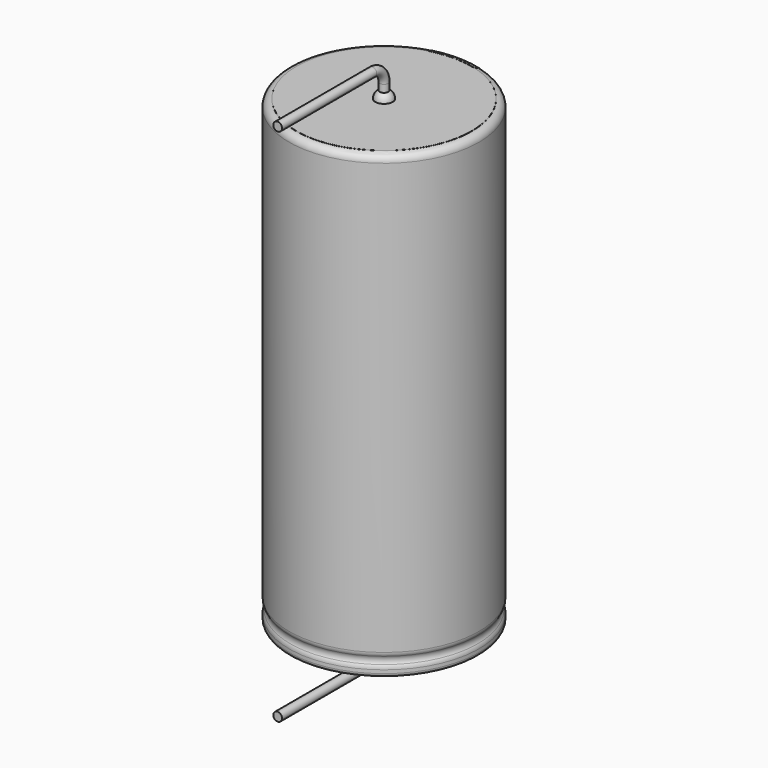
from build123d import *

# Parameters (mm, degrees)
SKETCH011_R             = 0.3
BODY007_PLACEMENT_ANGLE = 180
REVOLUTION001_ANGLE     = -30
POCKET_DEPTH            = 6.511
LINEARPATTERN_COUNT     = 7
LINEARPATTERN_PITCH     = 4.416667
SKETCH012_R             = 6
PAD_DEPTH               = 0.01
BODY008_PLACEMENT_ANGLE = 90


with BuildPart() as lead:
    # AdditivePipe: sweep along a path in Sketch010
    with BuildLine(Plane(origin=(0, 0, 0), x_dir=(0, -1, 0), z_dir=(-1, 0, 0))) as additivepipe_path:
        Line((0, 31.5), (0, 32.53))
        ThreePointArc((0, 32.53), (0.292893, 33.237107), (1, 33.53))
        Line((1, 33.53), (9.1, 33.53))
    # Sketch011 → AdditivePipe (sweep)
    with BuildSketch(Plane.XY.offset(31.5)):
        Circle(SKETCH011_R)
    sweep(path=additivepipe_path.line)


with BuildPart() as obj1:
    # Body007 base: copy of Lead
    add(lead.part)


with BuildPart() as obj1_1:
    # Body007 placement: moved
    add(obj1.part.moved(Location((0, 0, 31.5))).rotate(Axis((0, 0, 31.5), (0, 1, 0)), BODY007_PLACEMENT_ANGLE))


with BuildPart() as polaritymarking:
    # Sketch005 → Revolution001 (revolve)
    with BuildSketch(Plane(origin=(0, 0, 0), x_dir=(-0.258819, 0.965926, 0), z_dir=(0.965926, 0.258819, 0))):
        with BuildLine():
            Line((6.01, 0.043526), (6.01, 31.51))
            ThreePointArc((6.01, 31.51), (6.363553, 31.363553), (6.51, 31.01))
            Line((6.51, 31.01), (6.51, 1.523941))
            ThreePointArc((6.51, 1.523941), (6.489134, 1.381006), (6.428278, 1.25))
            ThreePointArc((6.428278, 1.25), (6.353698, 1), (6.428278, 0.75))
            ThreePointArc((6.428278, 0.75), (6.489134, 0.618994), (6.51, 0.476059))
            Line((6.51, 0.476059), (6.51, 0.043526))
            ThreePointArc((6.51, 0.043526), (6.26, -0.206474), (6.01, 0.043526))
        make_face()
    revolve(axis=Axis((0, 0, 0), (0, 0, 1)), revolution_arc=REVOLUTION001_ANGLE)

    # Sketch013 → Pocket (cut, through all)
    with BuildSketch(Plane.XZ):
        Polygon((0.375, 2), (-0.375, 2), (-0.375, 3), (0, 3.5), (0.375, 3), align=None)
    pocket = extrude(amount=-POCKET_DEPTH, mode=Mode.SUBTRACT)

    # LinearPattern: Pocket ×7
    with Locations(*[(0, 0, i * LINEARPATTERN_PITCH) for i in range(1, LINEARPATTERN_COUNT)]):
        add(pocket, mode=Mode.SUBTRACT)


with BuildPart() as housing:
    # Sketch → Revolution (revolve)
    with BuildSketch(Plane.XZ):
        with BuildLine():
            Line((0, 31.5), (6, 31.5))
            ThreePointArc((6.5, 31), (6.353553, 31.353553), (6, 31.5))
            Line((6.5, 31), (6.5, 1.523941))
            ThreePointArc((6.418278, 1.25), (6.479134, 1.381006), (6.5, 1.523941))
            ThreePointArc((6.418278, 1.25), (6.343698, 1), (6.418278, 0.75))
            ThreePointArc((6.5, 0.476059), (6.479134, 0.618994), (6.418278, 0.75))
            Line((6.5, 0.476059), (6.5, 0.25))
            ThreePointArc((6.25, 0), (6.426777, 0.073223), (6.5, 0.25))
            Line((0, 0), (6.25, 0))
            Line((0, 31.5), (0, 0))
        make_face()
    revolve(axis=Axis((0, 0, 0), (0, 0, 1)))


with BuildPart() as fusion:
    # Sphere → Sphere (revolve)
    with BuildSketch(Plane.XZ):
        with BuildLine():
            ThreePointArc((0, -0.6), (0.6, 0), (0, 0.6))
            Line((0, 0.6), (0, -0.6))
        make_face()
    revolve(axis=Axis((0, 0, 0), (0, 0, 1)))

    # Sketch012 (on ShapeBinder) → Pad (new body)
    with BuildSketch(Plane(origin=(0, 0, 0), x_dir=(0, -1, 0), z_dir=(0, 0, 1))):
        Circle(SKETCH012_R)
    extrude(amount=PAD_DEPTH)


with BuildPart() as fusion_1:
    # Body008 placement: moved
    add(fusion.part.moved(Location((0, 0, 31.5))).rotate(Axis((0, 0, 31.5), (0, 0, -1)), BODY008_PLACEMENT_ANGLE))

    # Fusion: union obj1, Lead, PolarityMarking, Housing
    add(obj1_1.part)
    add(lead.part)
    add(polaritymarking.part)
    add(housing.part)


solid = fusion_1.part
